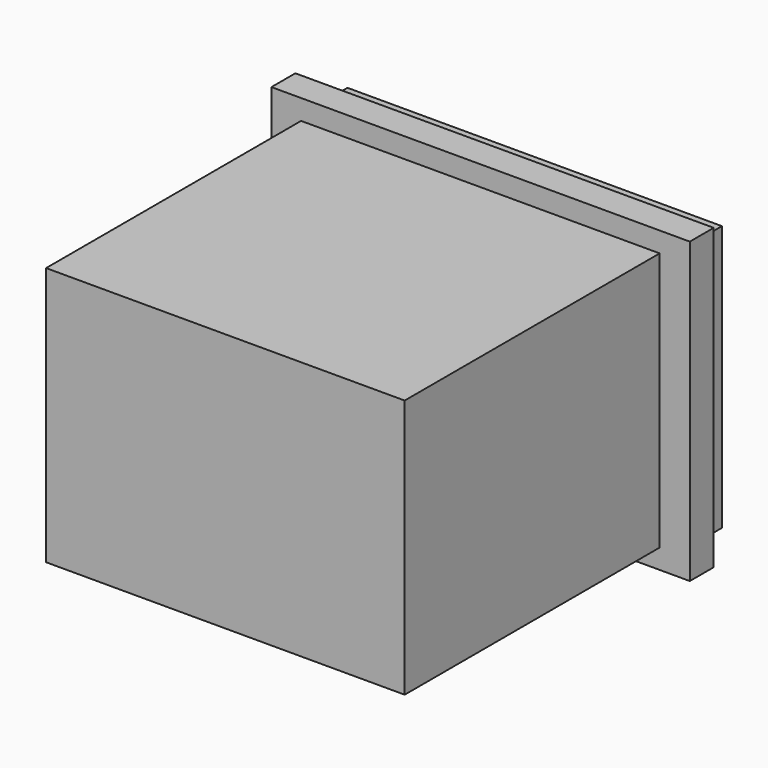
from build123d import *

# Parameters (mm, degrees)
F0_W          = 18
F0_H          = 15.998654
F1_DEPTH      = 13
F2_W          = 21
F2_H          = 1.5
F3_DEPTH      = 14
F3_DEPTH_BACK = 1
F4_W          = 18.796534
F4_H          = 13.335767
F5_DEPTH      = 2


with BuildPart() as f1:
    # F0 (on Top) → F1 (new body)
    with BuildSketch(Plane.XY):
        with Locations((0, -0.000673)):
            Rectangle(F0_W, F0_H)
    extrude(amount=F1_DEPTH)


with BuildPart() as f3:
    # F2 (on Top) → F3 (new body, two sides)
    with BuildSketch(Plane.XY) as f3_sk:
        with Locations((0, 8.765125)):
            Rectangle(F2_W, F2_H)
    extrude(amount=F3_DEPTH)
    extrude(f3_sk.sketch, amount=-F3_DEPTH_BACK)

    # F4 (on face) → F5 (join)
    with BuildSketch(Plane(origin=(0, 9.515125, 0), x_dir=(-1, 0, 0), z_dir=(0, 1, 0))):
        with Locations((0.086222, 6.208029)):
            Rectangle(F4_W, F4_H)
    extrude(amount=F5_DEPTH)


solid = Compound([f1.part, f3.part])
